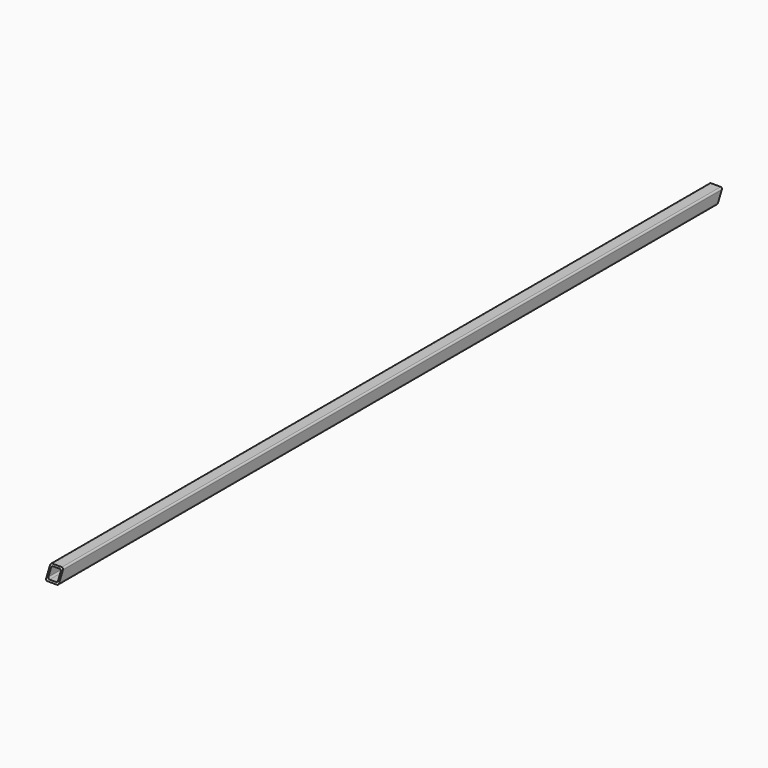
from build123d import *

# Parameters (mm, degrees)
F1_DEPTH = 1622.425
F3_DEPTH = 38.1
F5_DEPTH = 25.4


with BuildPart() as f1:
    # F0 (on Front) → F1 (new body)
    with BuildSketch(Plane.XZ):
        with BuildLine():
            Line((-10.2273916114, -12.0247762322), (8.8226083886, -12.0247762322))
            ThreePointArc((8.8226083886, -12.0247762322), (11.0676724189, -11.0948402625), (11.9976083886, -8.8497762322))
            Line((11.9976083886, -8.8497762322), (11.9976083886, 10.2002237678))
            ThreePointArc((11.9976083886, 10.2002237678), (11.0676724189, 12.445287798), (8.8226083886, 13.3752237678))
            Line((8.8226083886, 13.3752237678), (-10.2273916114, 13.3752237678))
            ThreePointArc((-10.2273916114, 13.3752237678), (-12.4724556417, 12.445287798), (-13.4023916114, 10.2002237678))
            Line((-13.4023916114, 10.2002237678), (-13.4023916114, -8.8497762322))
            ThreePointArc((-13.4023916114, -8.8497762322), (-12.4724556417, -11.0948402625), (-10.2273916114, -12.0247762322))
        make_face()
        with BuildLine():
            ThreePointArc((8.8226083886, -5.6747762322), (7.8926724189, -7.9198402625), (5.6476083886, -8.8497762322))
            Line((5.6476083886, -8.8497762322), (-7.0523916114, -8.8497762322))
            ThreePointArc((-7.0523916114, -8.8497762322), (-9.2974556417, -7.9198402625), (-10.2273916114, -5.6747762322))
            Line((-10.2273916114, -5.6747762322), (-10.2273916114, 7.0252237678))
            ThreePointArc((-10.2273916114, 7.0252237678), (-9.2974556417, 9.270287798), (-7.0523916114, 10.2002237678))
            Line((-7.0523916114, 10.2002237678), (5.6476083886, 10.2002237678))
            ThreePointArc((5.6476083886, 10.2002237678), (7.8926724189, 9.270287798), (8.8226083886, 7.0252237678))
            Line((8.8226083886, 7.0252237678), (8.8226083886, -5.6747762322))
        make_face(mode=Mode.SUBTRACT)
    extrude(amount=F1_DEPTH)

    # F2 (on Right) → F3 (cut, symmetric)
    with BuildSketch(Plane.YZ):
        Polygon((0, -13.513528793), (0, 13.375182943), (-12.9695749158, -13.513528793), align=None)
    extrude(amount=F3_DEPTH, both=True, mode=Mode.SUBTRACT)

    # F4 (on Right) → F5 (cut, symmetric)
    with BuildSketch(Plane.YZ):
        Polygon((-1622.425, 14.8639355038), (-1622.425, -12.0247762322), (-1609.4554250842, 14.8639355038), align=None)
    extrude(amount=F5_DEPTH, both=True, mode=Mode.SUBTRACT)


solid = f1.part
